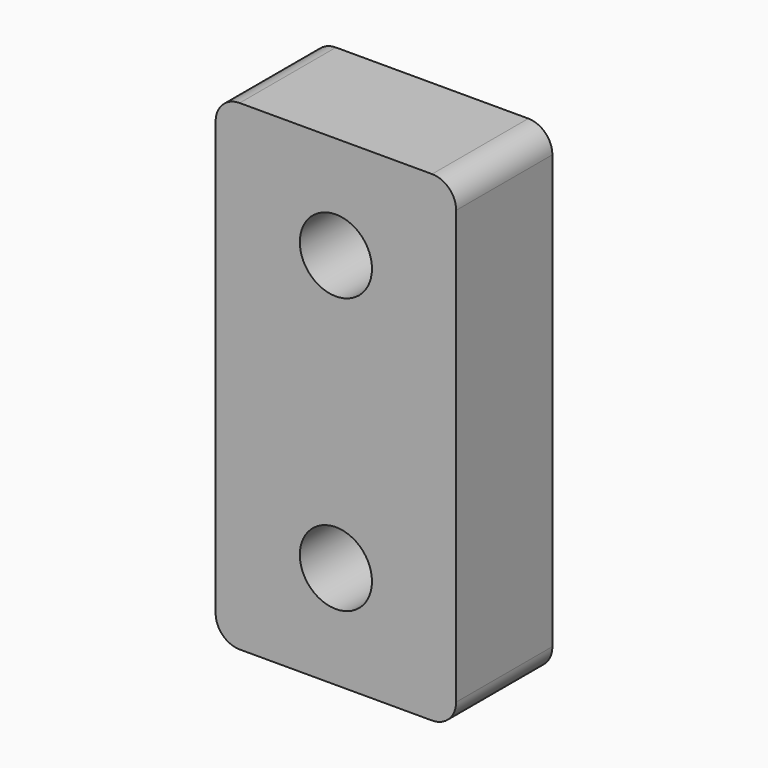
from build123d import *

# Parameters (mm, degrees)
F0_W     = 50.8
F0_H     = 101.6
F0_R     = 7.62
F1_DEPTH = 12.7
F2_R     = 5.08


with BuildPart() as f1:
    # F0 (on Front) → F1 (new body, symmetric)
    with BuildSketch(Plane.XZ):
        Rectangle(F0_W, F0_H)
        with Locations((0, -29.069694)):
            Circle(F0_R, mode=Mode.SUBTRACT)
        with Locations((0, 29.069694)):
            Circle(F0_R, mode=Mode.SUBTRACT)
    extrude(amount=F1_DEPTH, both=True)

    # F2
    f2_edges = [f1.edges().sort_by_distance(p)[0] for p in [
        (25.4, 0, 50.8),
        (-25.4, 0, 50.8),
        (25.4, 0, -50.8),
        (-25.4, 0, -50.8),
    ]]
    fillet(f2_edges, radius=F2_R)


solid = f1.part
